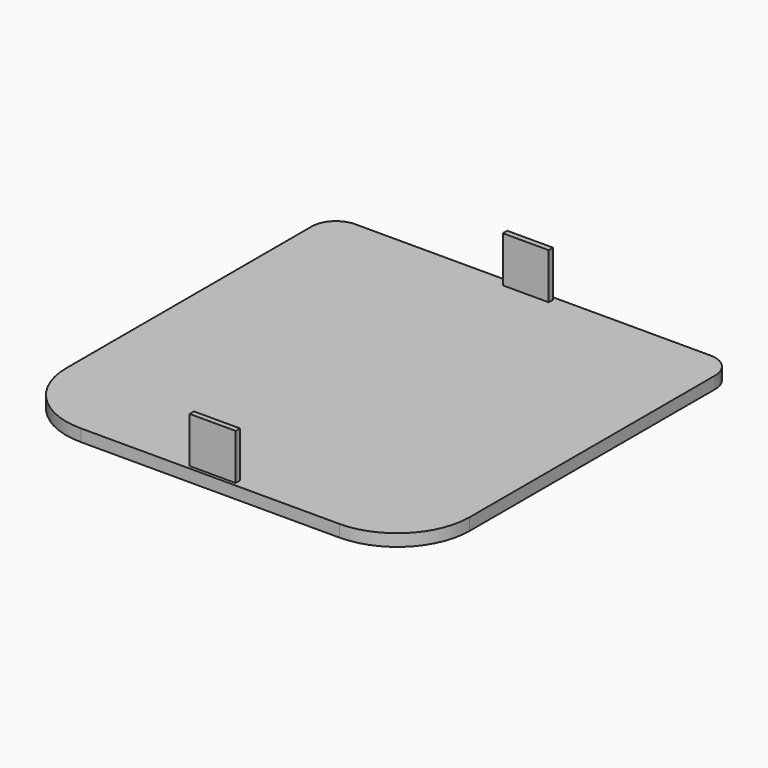
from build123d import *

# Parameters (mm, degrees)
F1_DEPTH = 5
F2_W     = 19
F2_H     = 2.25
F3_DEPTH = 19
F4_W     = 19
F4_H     = 2.25
F5_DEPTH = 19


with BuildPart() as f1:
    # F0 (on Top) → F1 (new body)
    with BuildSketch(Plane.XY):
        with BuildLine():
            Line((-53.5, -83.5), (53.5, -83.5))
            ThreePointArc((53.5, -83.5), (74.713203, -74.713203), (83.5, -53.5))
            Line((83.5, -53.5), (83.5, 73.5))
            ThreePointArc((83.5, 73.5), (80.571068, 80.571068), (73.5, 83.5))
            Line((73.5, 83.5), (-73.5, 83.5))
            ThreePointArc((-73.5, 83.5), (-80.571068, 80.571068), (-83.5, 73.5))
            Line((-83.5, 73.5), (-83.5, -53.5))
            ThreePointArc((-83.5, -53.5), (-74.713203, -74.713203), (-53.5, -83.5))
        make_face()
    extrude(amount=F1_DEPTH)

    # F2 (on face) → F3 (join)
    with BuildSketch(Plane.XY.offset(5)):
        with Locations((0, -81)):
            Rectangle(F2_W, F2_H)
    extrude(amount=F3_DEPTH)

    # F4 (on face) → F5 (join)
    with BuildSketch(Plane.XY.offset(5)):
        with Locations((0, 81)):
            Rectangle(F4_W, F4_H)
    extrude(amount=F5_DEPTH)


solid = f1.part
